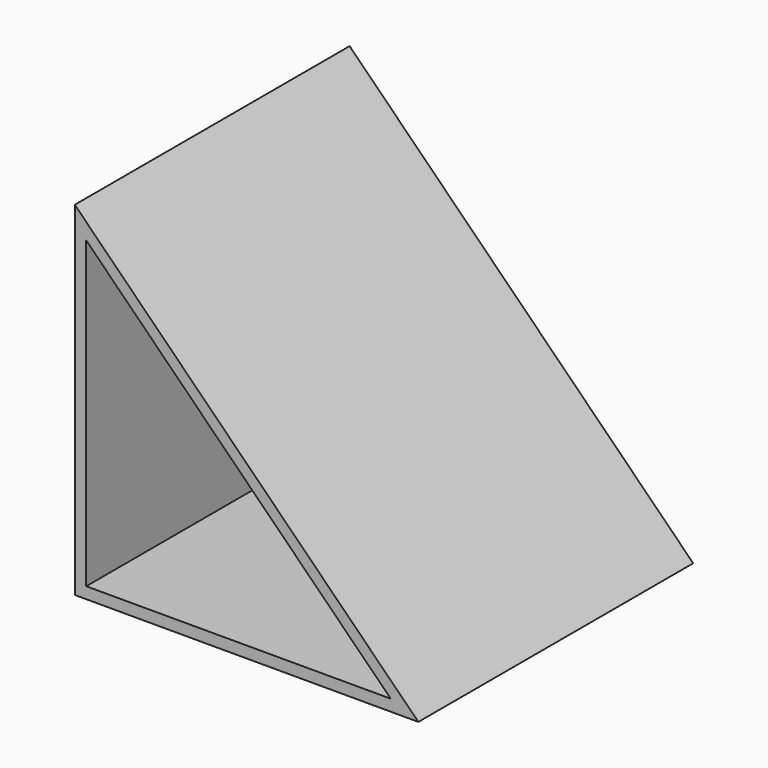
from build123d import *

# Parameters (mm, degrees)
F1_DEPTH = 76.2
F2_T     = -2.54


with BuildPart() as f1:
    # F0 (on Front) → F1 (new body)
    with BuildSketch(Plane.XZ):
        Polygon((-76.513141, 0.014535), (-76.513141, -76.185465), (-0.313141, -76.185465), align=None)
    extrude(amount=F1_DEPTH)

    # F2
    f2_openings = [f1.faces().sort_by_distance(p)[0] for p in [
        (-51.113141, -76.2, -50.785465),
    ]]
    offset(amount=F2_T, openings=f2_openings)


solid = f1.part
